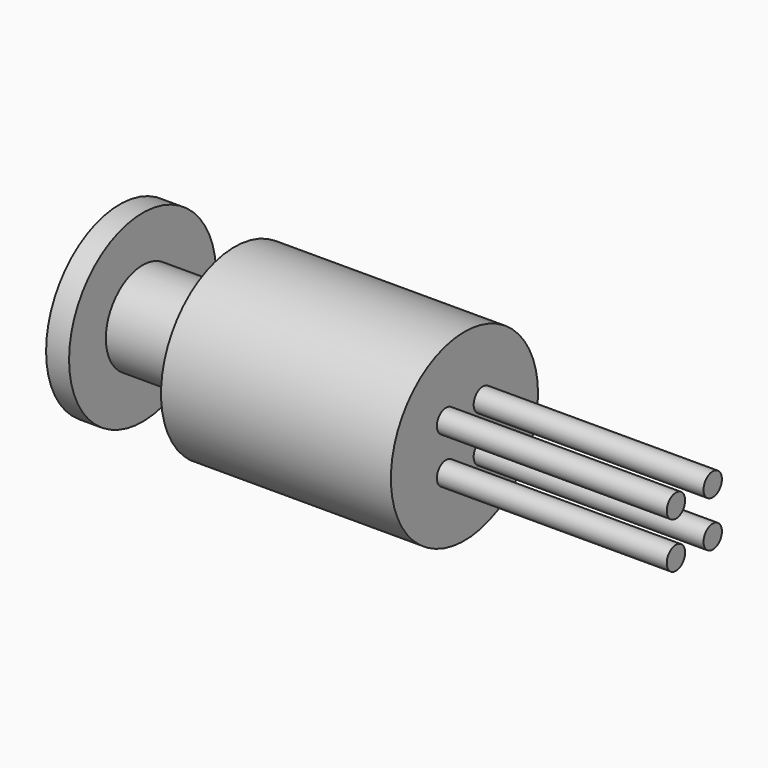
from build123d import *

# Parameters (mm, degrees)
F0_R     = 20
F1_DEPTH = 25
F2_R     = 2.5
F3_DEPTH = 50
F4_R     = 10
F5_DEPTH = 25
F6_R     = 20
F6_R_2   = 10
F7_DEPTH = 5


with BuildPart() as f1:
    # F0 (on Right) → F1 (new body, symmetric)
    with BuildSketch(Plane.YZ):
        Circle(F0_R)
    extrude(amount=F1_DEPTH, both=True)

    # F2 (on face) → F3 (join)
    with BuildSketch(Plane.YZ.offset(25)):
        with Locations((-5, 5)):
            Circle(F2_R)
        with Locations((5, 5)):
            Circle(F2_R)
        with Locations((5, -5)):
            Circle(F2_R)
        with Locations((-5, -5)):
            Circle(F2_R)
    extrude(amount=F3_DEPTH)

    # F4 (on face) → F5 (join)
    with BuildSketch(Plane(origin=(-25, 0, 0), x_dir=(0, -1, 0), z_dir=(-1, 0, 0))):
        Circle(F4_R)
    extrude(amount=F5_DEPTH)

    # F6 (on face) → F7 (join)
    with BuildSketch(Plane(origin=(-50, 0, 0), x_dir=(0, -1, 0), z_dir=(-1, 0, 0))):
        Circle(F6_R)
        Circle(F6_R_2, mode=Mode.SUBTRACT)
    extrude(amount=-F7_DEPTH)


solid = f1.part
